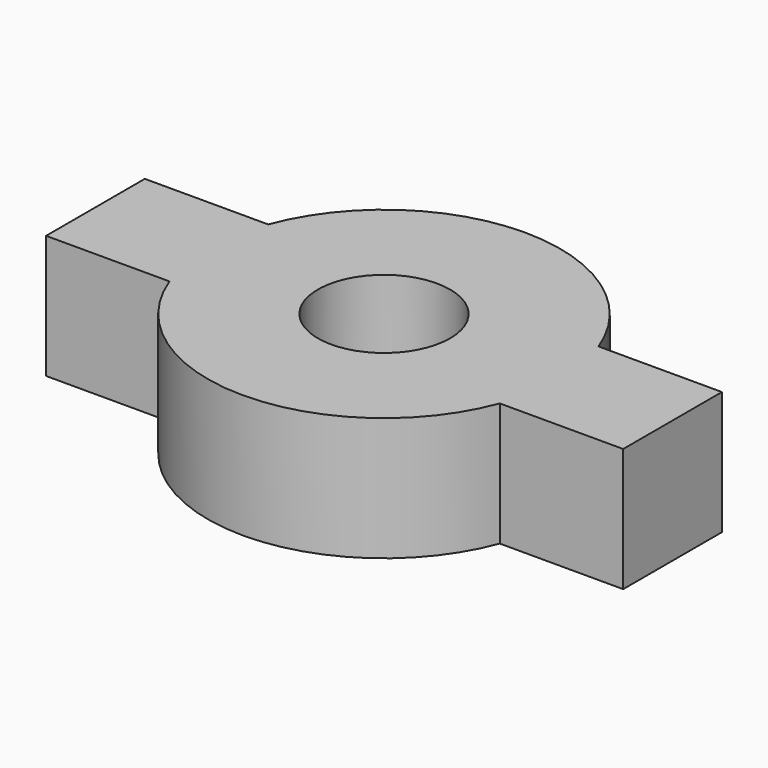
from build123d import *

# Parameters (mm, degrees)
F0_R     = 1.5
F1_DEPTH = 2.8


with BuildPart() as f1:
    # F0 (on Top) → F1 (new body)
    with BuildSketch(Plane.XY):
        with BuildLine():
            ThreePointArc((-3.746999, -1.4), (-4, 0), (-3.746999, 1.4))
            Line((-3.746999, 1.4), (-6.546999, 1.4))
            Line((-6.546999, 1.4), (-6.546999, -1.4))
            Line((-6.546999, -1.4), (-3.746999, -1.4))
        make_face()
        with BuildLine():
            Line((3.746999, -1.4), (3.746999, 1.4))
            ThreePointArc((3.746999, 1.4), (0, 4), (-3.746999, 1.4))
            Line((-3.746999, 1.4), (-3.746999, -1.4))
            ThreePointArc((-3.746999, -1.4), (0, -4), (3.746999, -1.4))
        make_face()
        Circle(F0_R, mode=Mode.SUBTRACT)
        with BuildLine():
            Line((-3.746999, -1.4), (-3.746999, 1.4))
            ThreePointArc((-3.746999, 1.4), (-4, 0), (-3.746999, -1.4))
        make_face()
        with BuildLine():
            ThreePointArc((3.746999, 1.4), (3.936242, 0.711338), (4, 0))
            ThreePointArc((4, 0), (3.936242, -0.711338), (3.746999, -1.4))
            Line((3.746999, -1.4), (6.546999, -1.4))
            Line((6.546999, -1.4), (6.546999, 1.4))
            Line((6.546999, 1.4), (3.746999, 1.4))
        make_face()
        with BuildLine():
            ThreePointArc((3.746999, -1.4), (3.936242, -0.711338), (4, 0))
            ThreePointArc((4, 0), (3.936242, 0.711338), (3.746999, 1.4))
            Line((3.746999, 1.4), (3.746999, -1.4))
        make_face()
    extrude(amount=F1_DEPTH)


solid = f1.part
